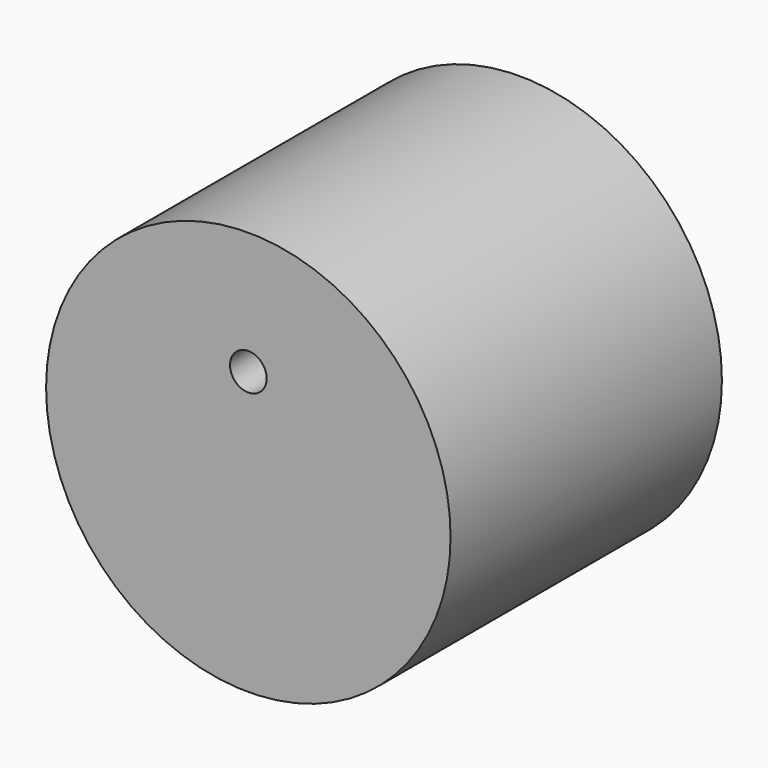
from build123d import *

# Parameters (mm, degrees)
F0_R     = 71.163332
F1_DEPTH = 119.347105
F2_R     = 6.447341
F3_DEPTH = 173.737081


with BuildPart() as f1:
    # F0 (on Front) → F1 (new body)
    with BuildSketch(Plane.XZ):
        Circle(F0_R)
    extrude(amount=-F1_DEPTH)

    # F2 (on Front) → F3 (cut)
    with BuildSketch(Plane.XZ):
        with Locations((0, 28.061479)):
            Circle(F2_R)
    extrude(amount=-F3_DEPTH, mode=Mode.SUBTRACT)


solid = f1.part
